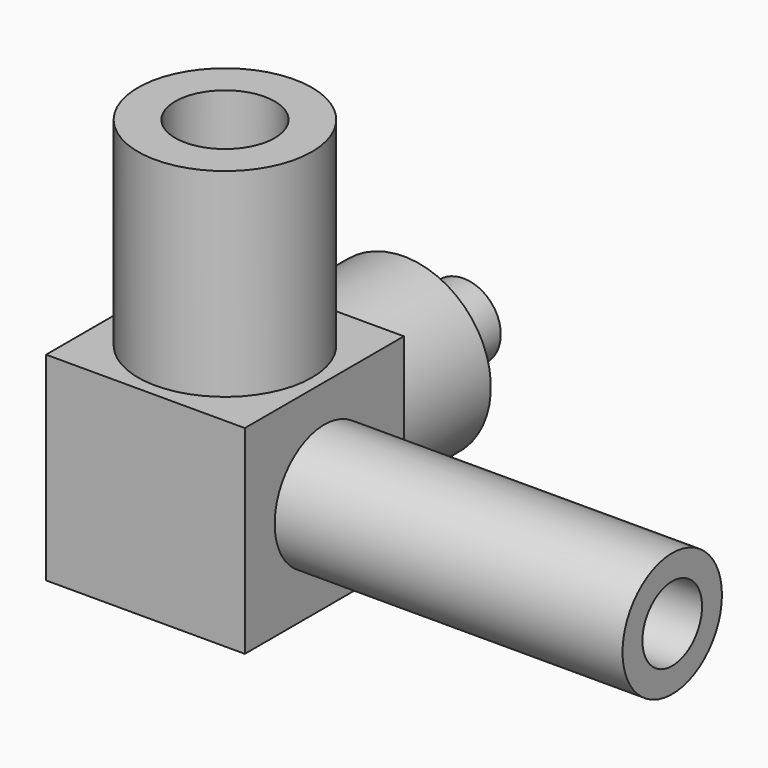
from build123d import *

# Parameters (mm, degrees)
F0_W      = 16
F0_H      = 16
F1_DEPTH  = 16
F2_R      = 3
F3_DEPTH  = 16
F2_R_2    = 5
F4_DEPTH  = 28
F5_R      = 4
F6_DEPTH  = 16
F5_R_2    = 7
F7_DEPTH  = 16
F8_R      = 3
F9_DEPTH  = 16
F8_R_2    = 7
F10_DEPTH = 10


with BuildPart() as f1:
    # F0 (on Top) → F1 (new body)
    with BuildSketch(Plane.XY):
        Rectangle(F0_W, F0_H)
    extrude(amount=F1_DEPTH)

    # F2 (on face) → F3 (cut)
    with BuildSketch(Plane.YZ.offset(8)):
        with Locations((0, 8)):
            Circle(F2_R)
    extrude(amount=-F3_DEPTH, mode=Mode.SUBTRACT)

    # F2 (on face) → F4 (join)
    with BuildSketch(Plane.YZ.offset(8)):
        with Locations((0, 8)):
            Circle(F2_R_2)
        with Locations((0, 8)):
            Circle(F2_R, mode=Mode.SUBTRACT)
    extrude(amount=F4_DEPTH)

    # F5 (on face) → F6 (cut)
    with BuildSketch(Plane.XY.offset(16)):
        Circle(F5_R)
    extrude(amount=-F6_DEPTH, mode=Mode.SUBTRACT)

    # F5 (on face) → F7 (join)
    with BuildSketch(Plane.XY.offset(16)):
        Circle(F5_R_2)
        Circle(F5_R, mode=Mode.SUBTRACT)
    extrude(amount=F7_DEPTH)

    # F8 (on face) → F9 (join)
    with BuildSketch(Plane(origin=(0, 8, 0), x_dir=(-1, 0, 0), z_dir=(0, 1, 0))):
        with Locations((0, 8)):
            Circle(F8_R)
    extrude(amount=F9_DEPTH)

    # F8 (on face) → F10 (join)
    with BuildSketch(Plane(origin=(0, 8, 0), x_dir=(-1, 0, 0), z_dir=(0, 1, 0))):
        with Locations((0, 8)):
            Circle(F8_R_2)
        with Locations((0, 8)):
            Circle(F8_R, mode=Mode.SUBTRACT)
    extrude(amount=F10_DEPTH)


solid = f1.part
